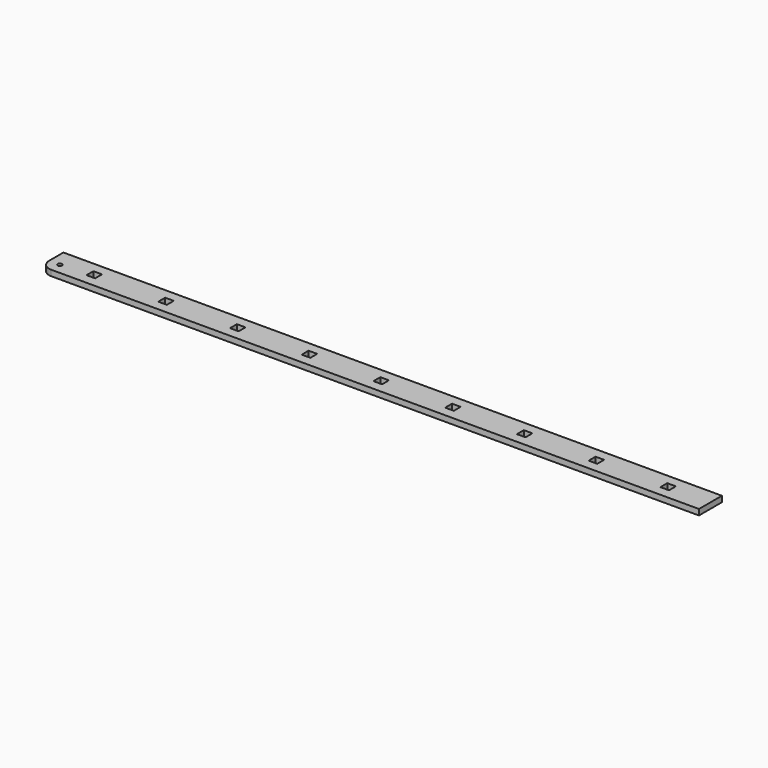
from build123d import *

# Parameters (mm, degrees)
F0_W     = 12
F0_H     = 12
F1_DEPTH = 4
F2_D     = 6
F2_DEPTH = 4.001
F3_D     = 6


with BuildPart() as f1:
    # F0 (on Top) → F1 (new body, symmetric)
    with BuildSketch(Plane.XY):
        with BuildLine():
            Line((459, -20), (459, 20))
            Line((459, 20), (-459, 20))
            Line((-459, 20), (-459, -5))
            ThreePointArc((-459, -5), (-454.6066017178, -15.6066017178), (-444, -20))
            Line((-444, -20), (459, -20))
        make_face()
        with Locations((-400, 0)):
            Rectangle(F0_W, F0_H, mode=Mode.SUBTRACT)
        with Locations((-300, 0)):
            Rectangle(F0_W, F0_H, mode=Mode.SUBTRACT)
        with Locations((-200, 0)):
            Rectangle(F0_W, F0_H, mode=Mode.SUBTRACT)
        with Locations((-100, 0)):
            Rectangle(F0_W, F0_H, mode=Mode.SUBTRACT)
        Rectangle(F0_W, F0_H, mode=Mode.SUBTRACT)
        with Locations((100, 0)):
            Rectangle(F0_W, F0_H, mode=Mode.SUBTRACT)
        with Locations((200, 0)):
            Rectangle(F0_W, F0_H, mode=Mode.SUBTRACT)
        with Locations((300, 0)):
            Rectangle(F0_W, F0_H, mode=Mode.SUBTRACT)
        with Locations((400, 0)):
            Rectangle(F0_W, F0_H, mode=Mode.SUBTRACT)
    extrude(amount=F1_DEPTH, both=True)

    # F2 (through all, one way)
    with BuildSketch(Plane.XY):
        with Locations((-444, -5)):
            Circle(F2_D / 2)
    extrude(amount=-F2_DEPTH, mode=Mode.SUBTRACT)

    # F3 (through all)
    with Locations(Plane(origin=(0, 0, 0), x_dir=(1, 0, 0), z_dir=(0, 0, -1))):
        with Locations((-444, 5)):
            Hole(F3_D / 2)


solid = f1.part
